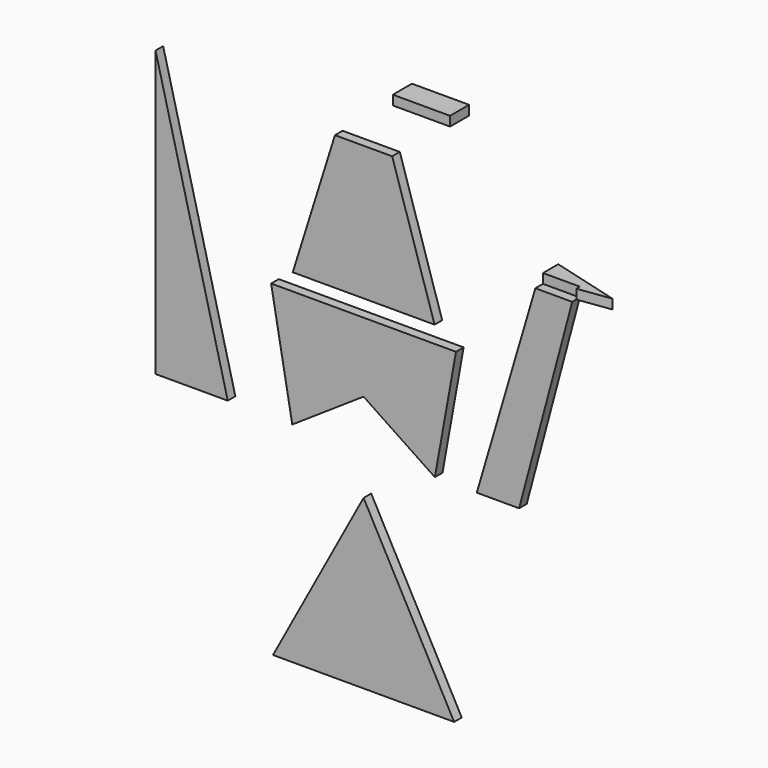
from build123d import *

# Parameters (mm, degrees)
F1_DEPTH  = 2.54
F3_DEPTH  = 2.54
F5_DEPTH  = 2.54
F6_W      = 15.24
F6_H      = 6.35
F7_DEPTH  = 2.54
F9_DEPTH  = 2.54
F11_DEPTH = 2.54
F13_DEPTH = 2.54


with BuildPart() as f1:
    # F0 (on Front) → F1 (new body)
    with BuildSketch(Plane.XZ):
        Polygon((-18.997625, 0), (0, 12.714945), (18.997625, 0), (24.628362, 31.246717), (-24.628362, 31.246717), align=None)
    extrude(amount=F1_DEPTH)


with BuildPart() as f3:
    # F2 (on Front) → F3 (new body)
    with BuildSketch(Plane.XZ):
        Polygon((-24.13, -55.732161), (0, -55.732161), (24.13, -55.732161), (0, -11.028882), align=None)
    extrude(amount=F3_DEPTH)


with BuildPart() as f5:
    # F4 (on Front) → F5 (new body)
    with BuildSketch(Plane.XZ):
        Polygon((-7.62, 71.571359), (-18.869227, 35.757359), (0, 35.757359), (0, 71.571359), align=None)
        Polygon((0, 71.571359), (0, 35.757359), (18.90967, 35.757359), (7.62, 71.571359), align=None)
    extrude(amount=F5_DEPTH)


with BuildPart() as f7:
    # F6 (on face) → F7 (new body)
    with BuildSketch(Plane.XY.offset(71.571359)):
        with Locations((1.054293, 18.596774)):
            Rectangle(F6_W, F6_H)
    extrude(amount=F7_DEPTH)


with BuildPart() as f9:
    # F8 (on Front) → F9 (new body)
    with BuildSketch(Plane.XZ):
        Polygon((45.773722, 53.030446), (30.171156, 0), (41.439675, 0), (55.597566, 53.030446), align=None)
    extrude(amount=F9_DEPTH)


with BuildPart() as f11:
    # F10 (on face) → F11 (new body)
    with BuildSketch(Plane.XY.offset(53.030446)):
        Polygon((45.773722, 5.08), (45.773722, 0), (55.597566, 0), (55.597566, -1.191878), (64.282849, 0), align=None)
    extrude(amount=F11_DEPTH)


with BuildPart() as f13:
    # F12 (on Front) → F13 (new body)
    with BuildSketch(Plane.XZ):
        Polygon((-55.426776, 0), (-36.187731, 0), (-55.426776, 75.887345), align=None)
    extrude(amount=F13_DEPTH)


solid = Compound([f1.part, f3.part, f5.part, f7.part, f9.part, f11.part, f13.part])
